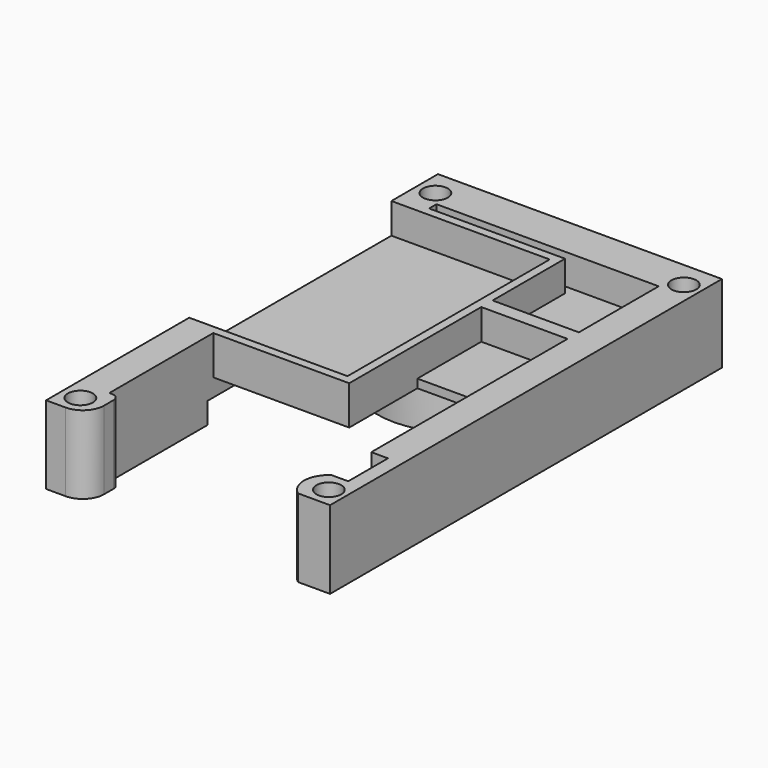
from build123d import *

# Parameters (mm, degrees)
SKETCH009_W     = 40
SKETCH009_H     = 69
SKETCH009_R     = 1.75
SKETCH009_W_2   = 31.3
SKETCH009_H_2   = 57.6
PAD004_DEPTH    = 11
SKETCH010_W     = 28
SKETCH010_H     = 23
POCKET005_DEPTH = 8
SKETCH011_W     = 28
SKETCH011_H     = 5
POCKET006_DEPTH = 8
SKETCH012_W     = 25
SKETCH012_H     = 3
POCKET007_DEPTH = 7
SKETCH013_W     = 38
SKETCH013_H     = 5.5
POCKET008_DEPTH = 5
SKETCH014_W     = 31.3
SKETCH014_H     = 2
PAD005_DEPTH    = 11
SKETCH015_W     = 12.5
SKETCH015_H     = 3
POCKET009_DEPTH = 5
SKETCH016_W     = 38
SKETCH016_H     = 5.5
POCKET010_DEPTH = 23.5
PAD006_DEPTH    = 23.5
SKETCH018_W     = 1.2
SKETCH018_H     = 38
PAD007_DEPTH    = 4.3
SKETCH019_W     = 12.15
SKETCH019_H     = 26
PAD008_DEPTH    = 1.2
SKETCH032_W     = 2.35
SKETCH032_H     = 7
POCKET014_DEPTH = 13
SKETCH033_W     = 31.3
SKETCH033_H     = 5
PAD018_DEPTH    = 1.2
SKETCH034_R     = 12
SKETCH034_R_2   = 11
PAD019_DEPTH    = 5.5
PAD020_DEPTH    = 3.5
FILLET_R        = 3
FILLET001_R     = 1


with BuildPart() as part:
    # Sketch009 → Pad004 (new body)
    with BuildSketch(Plane.XY):
        with Locations((-0.1, -1)):
            Rectangle(SKETCH009_W, SKETCH009_H)
        with Locations((-17.5, -32.71)):
            Circle(SKETCH009_R, mode=Mode.SUBTRACT)
        with Locations((17.5, -32.71)):
            Circle(SKETCH009_R, mode=Mode.SUBTRACT)
        with Locations((-17.5, 29.8)):
            Circle(SKETCH009_R, mode=Mode.SUBTRACT)
        with Locations((17.5, 29.8)):
            Circle(SKETCH009_R, mode=Mode.SUBTRACT)
        with Locations((-0.1, -1)):
            Rectangle(SKETCH009_W_2, SKETCH009_H_2, mode=Mode.SUBTRACT)
    extrude(amount=PAD004_DEPTH)

    # Sketch010 (on Face3 of Pad004) → Pocket005 (cut)
    with BuildSketch(Plane.XZ.offset(35.5)):
        with Locations((-0.331047, 5.882488)):
            Rectangle(SKETCH010_W, SKETCH010_H)
    extrude(amount=-POCKET005_DEPTH, mode=Mode.SUBTRACT)

    # Sketch011 (on Face1 of Pocket005) → Pocket006 (cut)
    with BuildSketch(Plane(origin=(0, 33.5, 0), x_dir=(-1, 0, 0), z_dir=(0, 1, 0))):
        with Locations((0, 2.5)):
            Rectangle(SKETCH011_W, SKETCH011_H)
    extrude(amount=-POCKET006_DEPTH, mode=Mode.SUBTRACT)

    # Sketch012 (on Face9 of Pocket006) → Pocket007 (cut)
    with BuildSketch(Plane(origin=(-20.1, 0, 0), x_dir=(0, -1, 0), z_dir=(-1, 0, 0))):
        with Locations((0, 1.5)):
            Rectangle(SKETCH012_W, SKETCH012_H)
    extrude(amount=-POCKET007_DEPTH, mode=Mode.SUBTRACT)

    # Sketch013 (on Face9 of Pocket007) → Pocket008 (cut)
    with BuildSketch(Plane(origin=(-20.1, 0, 0), x_dir=(0, -1, 0), z_dir=(-1, 0, 0))):
        with Locations((-7.5, 8.25)):
            Rectangle(SKETCH013_W, SKETCH013_H)
    extrude(amount=-POCKET008_DEPTH, mode=Mode.SUBTRACT)

    # Sketch014 → Pad005 (join)
    with BuildSketch(Plane.XY):
        with Locations((-0.1, 12.75)):
            Rectangle(SKETCH014_W, SKETCH014_H)
    extrude(amount=PAD005_DEPTH)

    # Sketch015 (on Face9 of Pad005) → Pocket009 (cut)
    with BuildSketch(Plane(origin=(-20.1, 0, 0), x_dir=(0, -1, 0), z_dir=(-1, 0, 0))):
        with Locations((-6.25, 1.5)):
            Rectangle(SKETCH015_W, SKETCH015_H)
    extrude(amount=-POCKET009_DEPTH, mode=Mode.SUBTRACT)

    # Sketch016 (on Face9 of Pocket009) → Pocket010 (cut)
    with BuildSketch(Plane(origin=(-20.1, 0, 0), x_dir=(0, -1, 0), z_dir=(-1, 0, 0))):
        with Locations((-7.5, 8.25)):
            Rectangle(SKETCH016_W, SKETCH016_H)
    extrude(amount=-POCKET010_DEPTH, mode=Mode.SUBTRACT)

    # Sketch017 (on Face9 of Pocket010) → Pad006 (join)
    with BuildSketch(Plane(origin=(-20.1, 0, 0), x_dir=(0, -1, 0), z_dir=(-1, 0, 0))):
        Polygon((11.5, 11), (11.5, 5.5), (-26.5, 5.5), (-26.5, 11), (-25.3, 11), (-25.3, 6.7), (10.3, 6.7), (10.3, 11), align=None)
    extrude(amount=-PAD006_DEPTH)

    # Sketch018 (on Face45 of Pad006) → Pad007 (join)
    with BuildSketch(Plane.XY.offset(6.7)):
        with Locations((2.8, 7.5)):
            Rectangle(SKETCH018_W, SKETCH018_H)
    extrude(amount=PAD007_DEPTH)

    # Sketch019 (on Face36 of Pad007) → Pad008 (join)
    with BuildSketch(Plane(origin=(0, 0, 5.5), x_dir=(1, 0, 0), z_dir=(0, 0, -1))):
        with Locations((9.475, -13.5)):
            Rectangle(SKETCH019_W, SKETCH019_H)
    extrude(amount=-PAD008_DEPTH)

    # Sketch032 (on Face6 of Pad008) → Pocket014 (cut)
    with BuildSketch(Plane(origin=(0, 0, 0), x_dir=(1, 0, 0), z_dir=(0, 0, -1))):
        with Locations((16.725, 26.3)):
            Rectangle(SKETCH032_W, SKETCH032_H)
        with BuildLine():
            ThreePointArc((16.553467, 36.082636), (14.040903, 33.26249), (15.55, 29.8))
            Line((15.55, 29.8), (10.188963, 29.8))
            Line((10.188963, 29.8), (10.188963, 36.082636))
            Line((10.188963, 36.082636), (16.553467, 36.082636))
        make_face()
    extrude(amount=-POCKET014_DEPTH, mode=Mode.SUBTRACT)

    # Sketch033 (on Face43 of Pocket014) → Pad018 (join)
    with BuildSketch(Plane(origin=(0, 0, 5.5), x_dir=(1, 0, 0), z_dir=(0, 0, -1))):
        with Locations((-0.1, -25.3)):
            Rectangle(SKETCH033_W, SKETCH033_H)
    extrude(amount=-PAD018_DEPTH)

    # Sketch034 (on Face41 of Pad018) → Pad019 (join)
    with BuildSketch(Plane(origin=(0, 0, 5.5), x_dir=(1, 0, 0), z_dir=(0, 0, -1))):
        with Locations((-0.15, -12.83)):
            Circle(SKETCH034_R)
        with Locations((-0.15, -12.83)):
            Circle(SKETCH034_R_2, mode=Mode.SUBTRACT)
    extrude(amount=PAD019_DEPTH)

    # Sketch035 (on Face75 of Pad019) → Pad020 (join)
    with BuildSketch(Plane(origin=(0, 0, 0), x_dir=(1, 0, 0), z_dir=(0, 0, -1))):
        with BuildLine():
            ThreePointArc((-6.052, -11.75), (-6.149451, -12.748865), (-6.079047, -13.75))
            Line((-6.079047, -13.75), (5.779047, -13.75))
            ThreePointArc((5.779047, -13.75), (5.849451, -12.748865), (5.752, -11.75))
            Line((-6.052, -11.75), (5.752, -11.75))
        make_face()
    extrude(amount=PAD020_DEPTH)

    # Fillet
    fillet_edges = [part.edges().sort_by_distance(p)[0] for p in [
        (-14.331047, -35.5, 5.5),
    ]]
    fillet(fillet_edges, radius=FILLET_R)

    # Fillet001
    fillet001_edges = [part.edges().sort_by_distance(p)[0] for p in [
        (-14.331047, -29.8, 5.5),
    ]]
    fillet(fillet001_edges, radius=FILLET001_R)


with BuildPart() as part_1:
    # Body001 placement: moved
    add(part.part.moved(Location((-51.9, 1, 2))))


solid = part_1.part
